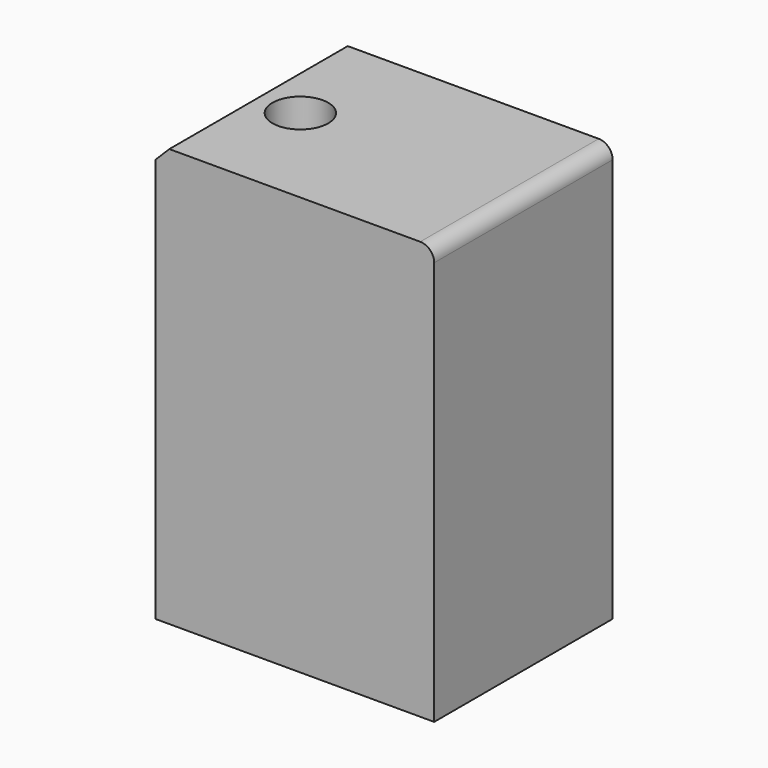
from build123d import *

# Parameters (mm, degrees)
F0_W     = 100
F0_H     = 150
F1_DEPTH = 40
F3_D     = 20
F4_SIZE  = 5
F5_R     = 5


with BuildPart() as f1:
    # F0 (on Front) → F1 (new body, symmetric)
    with BuildSketch(Plane.XZ):
        Rectangle(F0_W, F0_H)
    extrude(amount=F1_DEPTH, both=True)

    # F3 (through all)
    with Locations(Plane.XY.offset(75)):
        with Locations((-30, 0)):
            Hole(F3_D / 2)

    # F4
    f4_edges = [f1.edges().sort_by_distance(p)[0] for p in [
        (-50, 0, 75),
    ]]
    chamfer(f4_edges, length=F4_SIZE)

    # F5
    f5_edges = [f1.edges().sort_by_distance(p)[0] for p in [
        (50, 0, 75),
    ]]
    fillet(f5_edges, radius=F5_R)


solid = f1.part
